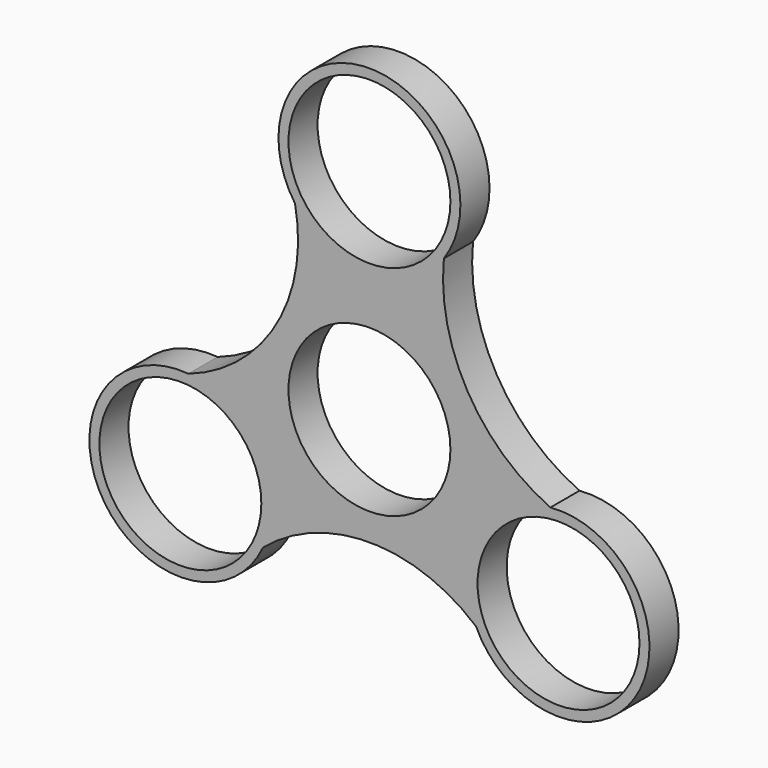
from build123d import *

# Parameters (mm, degrees)
F0_R     = 11.125
F1_DEPTH = 5


with BuildPart() as f1:
    # F0 (on Front) → F1 (new body)
    with BuildSketch(Plane.XZ):
        with BuildLine():
            ThreePointArc((24.869663, -2.54948), (13.48315, 7.7845), (10.226918, 22.8125))
            ThreePointArc((10.226918, 22.8125), (0, 42.5), (-10.226918, 22.8125))
            ThreePointArc((-10.226918, 22.8125), (-12.787477, 7.382853), (-24.869663, -2.54948))
            ThreePointArc((-24.869663, -2.54948), (-36.80608, -21.25), (-14.642746, -20.26302))
            ThreePointArc((-14.642746, -20.26302), (0, -14.846346), (14.642746, -20.26302))
            ThreePointArc((14.642746, -20.26302), (36.80608, -21.25), (24.869663, -2.54948))
        make_face()
        with Locations((-25.980762, -15)):
            Circle(F0_R, mode=Mode.SUBTRACT)
        with Locations((25.980762, -15)):
            Circle(F0_R, mode=Mode.SUBTRACT)
        Circle(F0_R, mode=Mode.SUBTRACT)
        with Locations((0, 30)):
            Circle(F0_R, mode=Mode.SUBTRACT)
    extrude(amount=F1_DEPTH)


solid = f1.part
